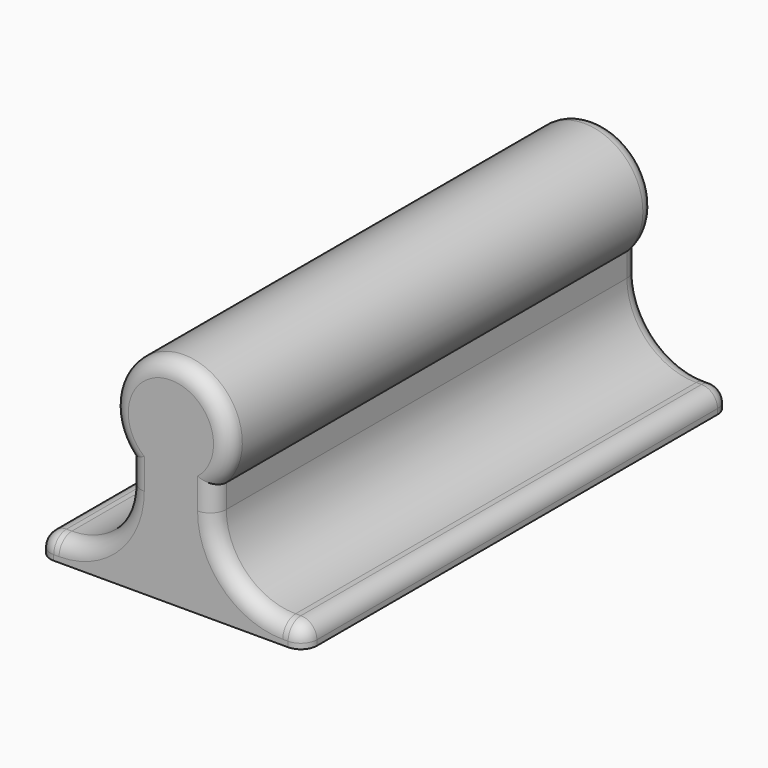
from build123d import *

# Parameters (mm, degrees)
F1_DEPTH = 25
F2_R     = 1.5
F3_R     = 1.5
F4_R     = 1.5
F5_DEPTH = 10


with BuildPart() as f1:
    # F0 (on Front) → F1 (new body, symmetric)
    with BuildSketch(Plane.XZ):
        with BuildLine():
            Line((-12.5, 2), (-12.5, 0))
            Line((-12.5, 0), (12.5, 0))
            Line((12.5, 0), (12.5, 2))
            Line((12.5, 2), (10.5, 2))
            ThreePointArc((10.5, 2), (5.9038059223, 3.9038059223), (4, 8.5))
            Line((4, 8.5), (4, 10.7250827824))
            ThreePointArc((4, 10.7250827824), (0, 20), (-4, 10.7250827824))
            Line((-4, 10.7250827824), (-4, 8.5))
            ThreePointArc((-4, 8.5), (-5.9038059223, 3.9038059223), (-10.5, 2))
            Line((-10.5, 2), (-12.5, 2))
        make_face()
    extrude(amount=F1_DEPTH, both=True)

    # F2
    f2_edges = [f1.edges().sort_by_distance(p)[0] for p in [
        (12.5, 0, 2),
        (-12.5, 0, 2),
    ]]
    fillet(f2_edges, radius=F2_R)

    # F3
    f3_edges = [f1.edges().sort_by_distance(p)[0] for p in [
        (0, -25, 20),
        (4, -25, 9.612541),
        (-4, -25, 9.612541),
        (0, 25, 20),
        (4, 25, 9.612541),
        (-5.903806, 25, 3.903806),
    ]]
    fillet(f3_edges, radius=F3_R)

    # F4 (on face) → F5 (cut)
    with BuildSketch(Plane(origin=(0, 0, 0), x_dir=(1, 0, 0), z_dir=(0, 0, -1))):
        Circle(F4_R)
        with Locations((0, 12)):
            Circle(F4_R)
        with Locations((0, -12)):
            Circle(F4_R)
    extrude(amount=-F5_DEPTH, mode=Mode.SUBTRACT)


solid = f1.part
